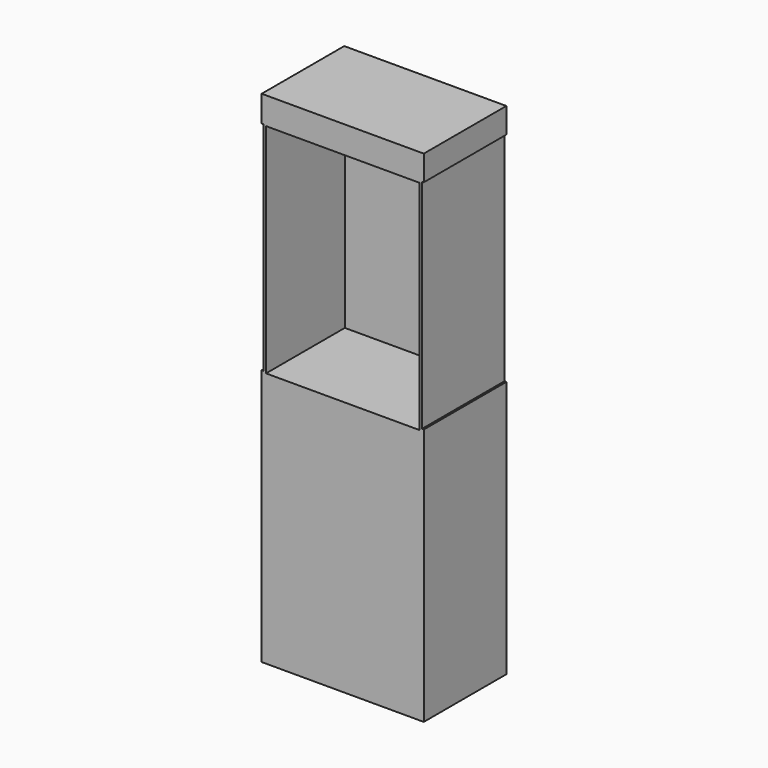
from build123d import *

# Parameters (mm, degrees)
F0_W     = 87.7677612007
F0_H     = 270.8992287517
F0_W_2   = 82.2834707797
F0_H_2   = 132.241293788
F1_DEPTH = 27.94
F2_W     = 83.075709641
F2_H     = 117.8717985749
F3_DEPTH = 53.34
F4_W     = 55.88
F4_H     = 117.8577281535
F5_DEPTH = 1.016
F6_W     = 55.88
F6_H     = 117.6069006324
F7_DEPTH = 1.016


with BuildPart() as f1:
    # F0 (on Front) → F1 (new body, symmetric)
    with BuildSketch(Plane.XZ):
        with Locations((-2.0966473967, -40.4195971787)):
            Rectangle(F0_W, F0_H)
        with Locations((-2.0786840469, 17.0819833875)):
            Rectangle(F0_W_2, F0_H_2, mode=Mode.SUBTRACT)
        with Locations((-2.0786840469, 17.0819833875)):
            Rectangle(F0_W_2, F0_H_2)
    extrude(amount=F1_DEPTH, both=True)

    # F2 (on face) → F3 (cut)
    with BuildSketch(Plane.XZ.offset(27.94)):
        with Locations((-2.0913966, 21.4343853295)):
            Rectangle(F2_W, F2_H)
    extrude(amount=-F3_DEPTH, mode=Mode.SUBTRACT)

    # F4 (on face) → F5 (cut)
    with BuildSketch(Plane.YZ.offset(41.7872332036)):
        with Locations((0, 22.4192347378)):
            Rectangle(F4_W, F4_H)
    extrude(amount=-F5_DEPTH, mode=Mode.SUBTRACT)

    # F6 (on face) → F7 (cut)
    with BuildSketch(Plane(origin=(-45.980527997, 0, 0), x_dir=(0, -1, 0), z_dir=(-1, 0, 0))):
        with Locations((0, 22.0092870295)):
            Rectangle(F6_W, F6_H)
    extrude(amount=-F7_DEPTH, mode=Mode.SUBTRACT)


solid = f1.part
